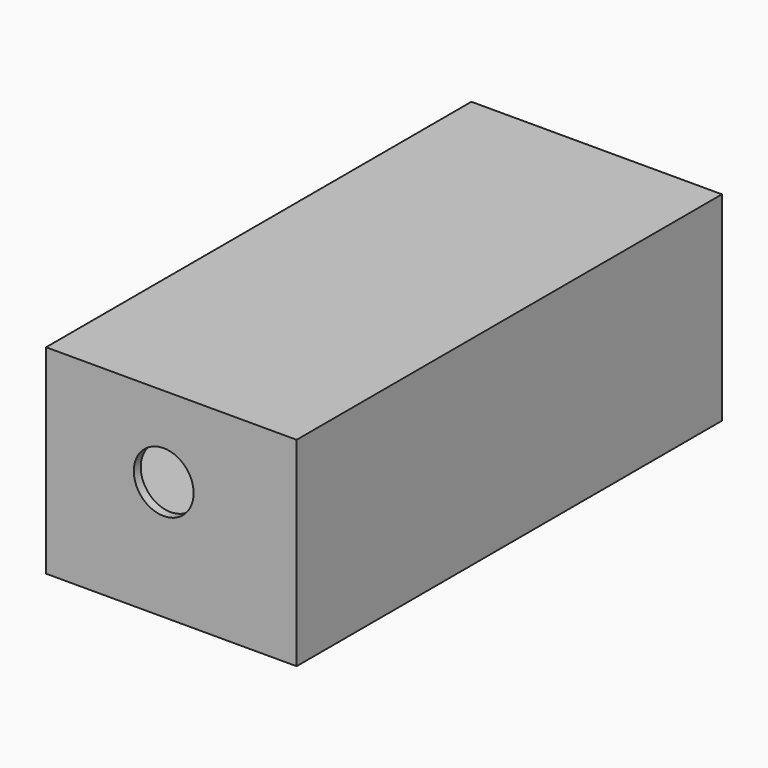
from build123d import *

# Parameters (mm, degrees)
F0_W           = 101.6
F0_H           = 203.2
F1_DEPTH       = 76.2
F2_W           = 96.435938
F2_H           = 70.576824
F3_DEPTH       = 258.572
F4_W           = 101.6
F4_H           = 76.2
F5_DEPTH       = 3.302
F6_R           = 11.433627
F7_DEPTH       = 25.4
F8_W           = 100.535084
F8_H           = 27.989352
F9_DEPTH       = 203.2
F10_W          = 96.052602
F10_H          = 24.980713
F11_DEPTH      = 200.914
F12_W          = 23.410334
F12_H          = 56.895998
F13_DEPTH      = 9.652
F13_DEPTH_BACK = 11.938
F14_W          = 233.204983
F14_H          = 100.407705
F15_DEPTH      = 5.842
F16_W          = 95.758
F16_H          = 76.2
F17_DEPTH      = 2.794


with BuildPart() as f1:
    # F0 (on Top) → F1 (new body)
    with BuildSketch(Plane.XY):
        Rectangle(F0_W, F0_H)
    extrude(amount=F1_DEPTH)

    # F2 (on face) → F3 (cut)
    with BuildSketch(Plane.XZ.offset(101.6)):
        with Locations((0.141935, 37.975889)):
            Rectangle(F2_W, F2_H)
    extrude(amount=-F3_DEPTH, mode=Mode.SUBTRACT)

    # F4 (on face) → F5 (join)
    with BuildSketch(Plane.XZ.offset(101.6)):
        with Locations((0, 38.1)):
            Rectangle(F4_W, F4_H)
    extrude(amount=-F5_DEPTH)

    # F6 (on face) → F7 (cut)
    with BuildSketch(Plane.XZ.offset(101.6)):
        with Locations((0, 45.440793)):
            Circle(F6_R)
    extrude(amount=-F7_DEPTH, mode=Mode.SUBTRACT)

    # F8 (on face) → F9 (join)
    with BuildSketch(Plane(origin=(0, 101.6, 0), x_dir=(-1, 0, 0), z_dir=(0, 1, 0))):
        with Locations((-0.532458, 13.994676)):
            Rectangle(F8_W, F8_H)
    extrude(amount=-F9_DEPTH)

    # F10 (on face) → F11 (cut)
    with BuildSketch(Plane(origin=(0, 101.6, 0), x_dir=(-1, 0, 0), z_dir=(0, 1, 0))):
        with Locations((-0.199899, 14.034254)):
            Rectangle(F10_W, F10_H)
    extrude(amount=-F11_DEPTH, mode=Mode.SUBTRACT)

    # F12 (on face) → F13 (cut, two sides)
    with BuildSketch(Plane.XY.offset(27.989352)) as f13_sk:
        with Locations((-0.740831, -19.557999)):
            Rectangle(F12_W, F12_H)
    extrude(amount=-F13_DEPTH, mode=Mode.SUBTRACT)
    extrude(f13_sk.sketch, amount=-F13_DEPTH_BACK, mode=Mode.SUBTRACT)

    # F14 (on face) → F15 (cut)
    with BuildSketch(Plane(origin=(-50.8, 0, 0), x_dir=(0, -1, 0), z_dir=(-1, 0, 0))):
        with Locations((6.751563, 32.170609)):
            Rectangle(F14_W, F14_H)
    extrude(amount=-F15_DEPTH, mode=Mode.SUBTRACT)

    # F16 (on face) → F17 (join)
    with BuildSketch(Plane(origin=(0, 101.6, 0), x_dir=(-1, 0, 0), z_dir=(0, 1, 0))):
        with Locations((-2.921, 38.1)):
            Rectangle(F16_W, F16_H)
    extrude(amount=-F17_DEPTH)


solid = f1.part
